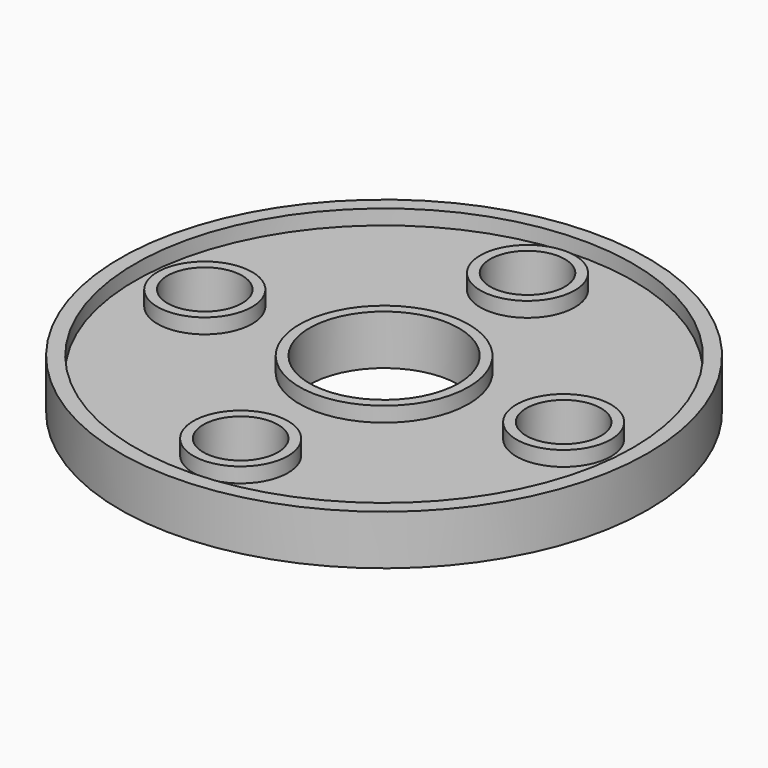
from build123d import *

# Parameters (mm, degrees)
F0_R     = 1270
F0_R_2   = 241.3
F0_R_3   = 431.8
F1_DEPTH = 177.8
F0_R_4   = 190.5
F2_DEPTH = 254
F0_R_5   = 381
F3_DEPTH = 254
F0_R_6   = 1346.2
F4_DEPTH = 254


with BuildPart() as f1:
    # F0 (on Top) → F1 (new body)
    with BuildSketch(Plane.XY):
        Circle(F0_R)
        with Locations((0, -914.399981)):
            Circle(F0_R_2, mode=Mode.SUBTRACT)
        with Locations((-914.4, 0)):
            Circle(F0_R_2, mode=Mode.SUBTRACT)
        Circle(F0_R_3, mode=Mode.SUBTRACT)
        with Locations((915.827215, 0)):
            Circle(F0_R_2, mode=Mode.SUBTRACT)
        with Locations((0, 914.4)):
            Circle(F0_R_2, mode=Mode.SUBTRACT)
    extrude(amount=F1_DEPTH)

    # F0 (on Top) → F2 (join)
    with BuildSketch(Plane.XY):
        with Locations((0, 914.4)):
            Circle(F0_R_2)
        with Locations((0, 914.4)):
            Circle(F0_R_4, mode=Mode.SUBTRACT)
        with Locations((915.827215, 0)):
            Circle(F0_R_2)
        with Locations((915.827215, 0)):
            Circle(F0_R_4, mode=Mode.SUBTRACT)
        with Locations((0, -914.399981)):
            Circle(F0_R_2)
        with Locations((0, -914.399981)):
            Circle(F0_R_4, mode=Mode.SUBTRACT)
        with Locations((-914.4, 0)):
            Circle(F0_R_2)
        with Locations((-914.4, 0)):
            Circle(F0_R_4, mode=Mode.SUBTRACT)
    extrude(amount=F2_DEPTH)

    # F0 (on Top) → F3 (join)
    with BuildSketch(Plane.XY):
        Circle(F0_R_3)
        Circle(F0_R_5, mode=Mode.SUBTRACT)
    extrude(amount=F3_DEPTH)

    # F0 (on Top) → F4 (join)
    with BuildSketch(Plane.XY):
        Circle(F0_R_6)
        Circle(F0_R, mode=Mode.SUBTRACT)
    extrude(amount=F4_DEPTH)


solid = f1.part
